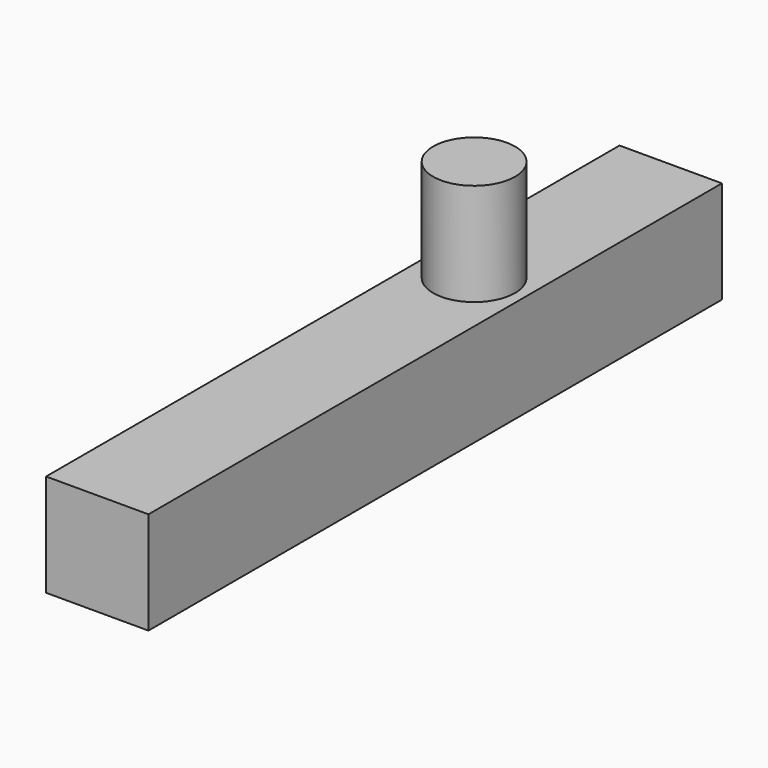
from build123d import *

# Parameters (mm, degrees)
SKETCH_W     = 10
SKETCH_H     = 70
PAD_DEPTH    = 10
SKETCH001_R  = 4
PAD001_DEPTH = 10


with BuildPart() as part:
    # Sketch → Pad (new body)
    with BuildSketch(Plane.XY):
        with Locations((5, 35)):
            Rectangle(SKETCH_W, SKETCH_H)
    extrude(amount=PAD_DEPTH)

    # Sketch001 (on Face6 of Pad) → Pad001 (join)
    with BuildSketch(Plane.XY.offset(10)):
        with Locations((5, 46)):
            Circle(SKETCH001_R)
    extrude(amount=PAD001_DEPTH)


solid = part.part
